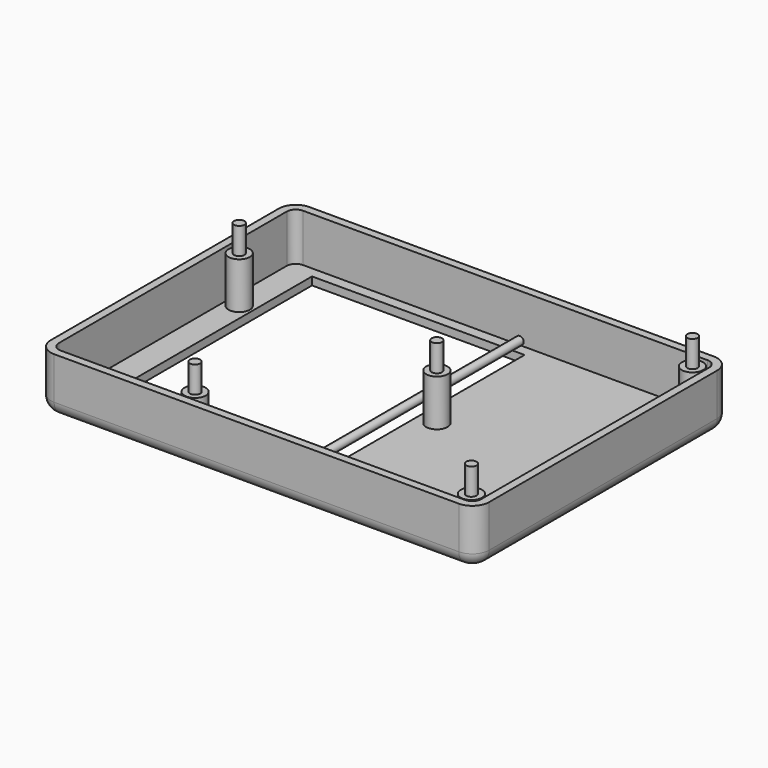
from build123d import *

# Parameters (mm, degrees)
F1_DEPTH  = 21
F2_T      = -3
F3_R      = 5.08
F4_R      = 4
F5_DEPTH  = 17.5
F6_R      = 1.95
F7_DEPTH  = 10
F8_W      = 80
F8_H      = 100
F9_DEPTH  = 25
F10_R     = 1.5
F11_DEPTH = 115


with BuildPart() as f1:
    # F0 (on Top) → F1 (new body)
    with BuildSketch(Plane.XY):
        with BuildLine():
            ThreePointArc((-83.334517, -38.901611), (-81.474645, -43.391739), (-76.984517, -45.251611))
            Line((-76.984517, -45.251611), (75.315483, -45.251611))
            ThreePointArc((75.315483, -45.251611), (79.805611, -43.391739), (81.665483, -38.901611))
            Line((81.665483, -38.901611), (81.665483, 68.398389))
            ThreePointArc((81.665483, 68.398389), (79.805611, 72.888517), (75.315483, 74.748389))
            Line((75.315483, 74.748389), (-76.984517, 74.748389))
            ThreePointArc((-76.984517, 74.748389), (-81.474645, 72.888517), (-83.334517, 68.398389))
            Line((-83.334517, 68.398389), (-83.334517, -38.901611))
        make_face()
    extrude(amount=F1_DEPTH)

    # F2
    f2_openings = [f1.faces().sort_by_distance(p)[0] for p in [
        (-0.834517, 14.748389, 21),
    ]]
    offset(amount=F2_T, openings=f2_openings)

    # F3
    f3_edges = [f1.edges().sort_by_distance(p)[0] for p in [
        (-81.474645, 72.888517, 0),
    ]]
    fillet(f3_edges, radius=F3_R)

    # F4 (on face) → F5 (join)
    with BuildSketch(Plane.XY.offset(3)):
        with Locations((73.665483, -37.251611)):
            Circle(F4_R)
        with Locations((73.665483, 66.748389)):
            Circle(F4_R)
        with Locations((16.665483, 17.748389)):
            Circle(F4_R)
        with Locations((-75.334517, 39.748389)):
            Circle(F4_R)
        with Locations((-30.334517, -37.251611)):
            Circle(F4_R)
    extrude(amount=F5_DEPTH)

    # F6 (on face) → F7 (join)
    with BuildSketch(Plane.XY.offset(20.5)):
        with Locations((73.665483, -37.251611)):
            Circle(F6_R)
        with Locations((16.665483, 17.748389)):
            Circle(F6_R)
        with Locations((73.665483, 66.748389)):
            Circle(F6_R)
        with Locations((-30.334517, -37.251611)):
            Circle(F6_R)
        with Locations((-75.334517, 39.748389)):
            Circle(F6_R)
    extrude(amount=F7_DEPTH)

    # F8 (on face) → F9 (cut)
    with BuildSketch(Plane(origin=(0, 0, 0), x_dir=(1, 0, 0), z_dir=(0, 0, -1))):
        with Locations((-30.334517, -17.748389)):
            Rectangle(F8_W, F8_H)
    extrude(amount=-F9_DEPTH, mode=Mode.SUBTRACT)

    # F10 (on face) → F11 (join)
    with BuildSketch(Plane.XZ.offset(-71.748389)):
        with Locations((4.665483, 4.55)):
            Circle(F10_R)
    extrude(amount=F11_DEPTH)


solid = f1.part
